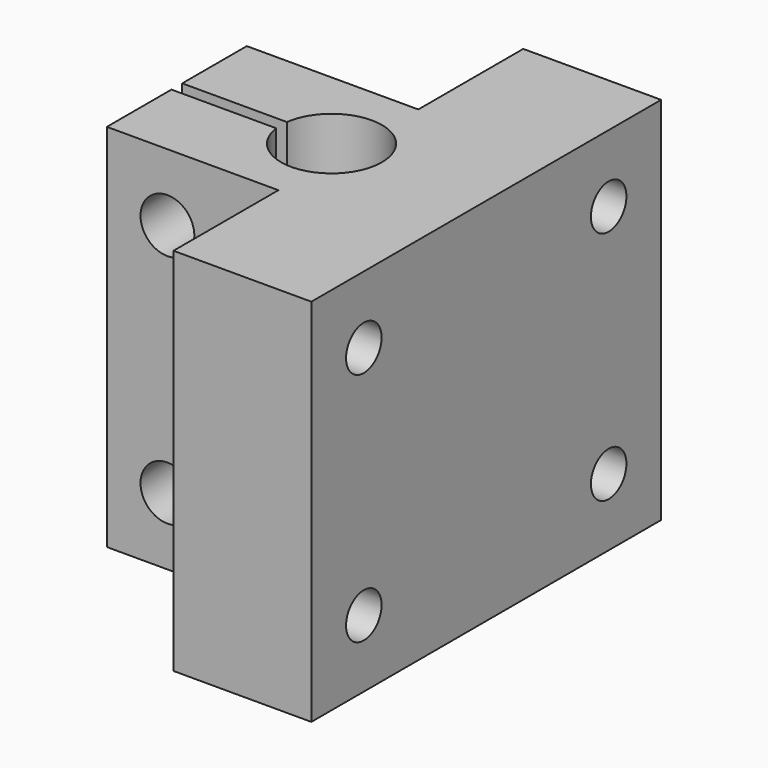
from build123d import *

# Parameters (mm, degrees)
F1_DEPTH = 55
F2_R     = 4
F3_DEPTH = 31.4
F4_R     = 3.3
F5_DEPTH = 25
F6_R     = 3.3
F7_DEPTH = 25


with BuildPart() as f1:
    # F0 (on Top) → F1 (new body)
    with BuildSketch(Plane.XY):
        with BuildLine():
            Line((9.949399, -26.301836), (30.449399, -26.301836))
            Line((30.449399, -26.301836), (30.449399, 38.698164))
            Line((30.449399, 38.698164), (9.949399, 38.698164))
            Line((9.949399, 38.698164), (9.949399, 19.198164))
            Line((9.949399, 19.198164), (-15.550601, 19.198164))
            Line((-15.550601, 19.198164), (-15.550601, 7.198164))
            Line((-15.550601, 7.198164), (0.016364, 7.198164))
            ThreePointArc((0.016364, 7.198164), (14.949399, 6.198164), (0.016364, 5.198164))
            Line((0.016364, 5.198164), (-15.550601, 5.198164))
            Line((-15.550601, 5.198164), (-15.550601, -6.801836))
            Line((-15.550601, -6.801836), (9.949399, -6.801836))
            Line((9.949399, -6.801836), (9.949399, -26.301836))
        make_face()
    extrude(amount=F1_DEPTH)

    # F2 (on face) → F3 (cut)
    with BuildSketch(Plane(origin=(0, 19.198164, 0), x_dir=(-1, 0, 0), z_dir=(0, 1, 0))):
        with Locations((6.550601, 10)):
            Circle(F2_R)
        with Locations((6.550601, 45)):
            Circle(F2_R)
    extrude(amount=-F3_DEPTH, mode=Mode.SUBTRACT)

    # F4 (on face) → F5 (cut)
    with BuildSketch(Plane(origin=(9.949399, 0, 0), x_dir=(0, -1, 0), z_dir=(-1, 0, 0))):
        with Locations((-28.948164, 10)):
            Circle(F4_R)
        with Locations((-28.948164, 45)):
            Circle(F4_R)
    extrude(amount=-F5_DEPTH, mode=Mode.SUBTRACT)

    # F6 (on face) → F7 (cut)
    with BuildSketch(Plane(origin=(9.949399, 0, 0), x_dir=(0, -1, 0), z_dir=(-1, 0, 0))):
        with Locations((16.551836, 10)):
            Circle(F6_R)
        with Locations((16.551836, 45)):
            Circle(F6_R)
    extrude(amount=-F7_DEPTH, mode=Mode.SUBTRACT)


solid = f1.part
